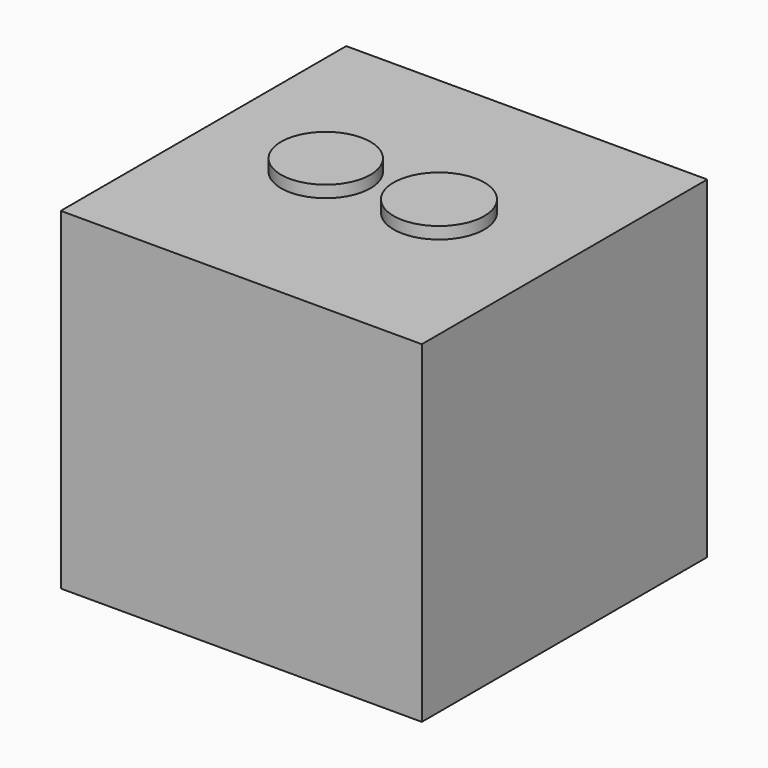
from build123d import *

# Parameters (mm, degrees)
F0_W     = 60.7175044715
F0_H     = 55.9188649058
F0_R     = 7.6059383026
F1_DEPTH = 60
F2_R     = 14.7535326744
F3_DEPTH = 2
F4_R     = 7.5183585286
F6_DEPTH = 2
F5_R     = 7.6263318458
F7_DEPTH = 2


with BuildPart() as f1:
    # F0 (on Front) → F1 (new body)
    with BuildSketch(Plane.XZ):
        with Locations((-30.3587522358, 27.9594324529)):
            Rectangle(F0_W, F0_H)
        with Locations((-31.1422031373, 29.4773690403)):
            Circle(F0_R, mode=Mode.SUBTRACT)
        with Locations((-31.1422031373, 29.4773690403)):
            Circle(F0_R)
    extrude(amount=F1_DEPTH)

    # F2 (on face) → F3 (join)
    with BuildSketch(Plane(origin=(-60.7175044715, 0, 0), x_dir=(0, -1, 0), z_dir=(-1, 0, 0))):
        with Locations((28.531210497, 28.0492659658)):
            Circle(F2_R)
    extrude(amount=F3_DEPTH)

    # F4 (on face) → F6 (join)
    with BuildSketch(Plane.XY.offset(55.9188649058)):
        with Locations((-40.4834784567, -29.5914951712)):
            Circle(F4_R)
    extrude(amount=F6_DEPTH)

    # F5 (on face) → F7 (join)
    with BuildSketch(Plane.XY.offset(55.9188649058)):
        with Locations((-21.5911883861, -29.3987151235)):
            Circle(F5_R)
    extrude(amount=F7_DEPTH)


solid = f1.part
